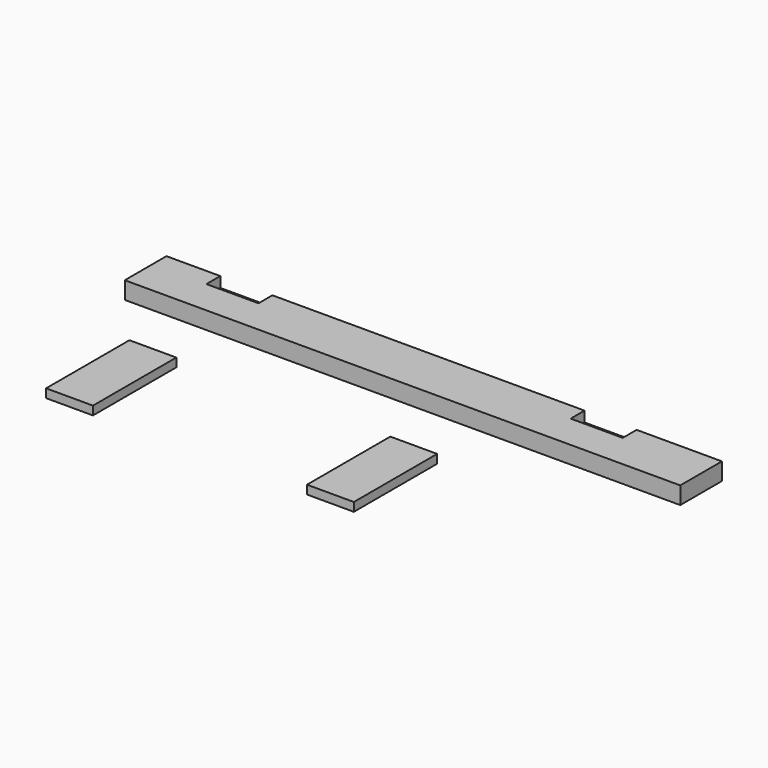
from build123d import *

# Parameters (mm, degrees)
F0_W     = 406.4
F0_H     = 38.1
F1_DEPTH = 12.7
F2_W     = 38.1
F2_H     = 12.7
F3_DEPTH = 7.62
F4_W     = 34.29
F4_H     = 76.2
F5_DEPTH = 6.35


with BuildPart() as f1:
    # F0 (on Top) → F1 (new body)
    with BuildSketch(Plane.XY):
        with Locations((23.47656, 35.295876)):
            Rectangle(F0_W, F0_H)
    extrude(amount=F1_DEPTH)

    # F2 (on face) → F3 (cut)
    with BuildSketch(Plane.XY.offset(12.7)):
        with Locations((-121.258619, 47.995876)):
            Rectangle(F2_W, F2_H)
        with Locations((145.232199, 47.995876)):
            Rectangle(F2_W, F2_H)
    extrude(amount=-F3_DEPTH, mode=Mode.SUBTRACT)


with BuildPart() as f5:
    # F4 (on Top) → F5 (new body)
    with BuildSketch(Plane.XY):
        with Locations((-121.743635, -68.65374)):
            Rectangle(F4_W, F4_H)
        with Locations((69.126278, -68.65374)):
            Rectangle(F4_W, F4_H)
    extrude(amount=F5_DEPTH)


solid = Compound([f1.part, f5.part])
